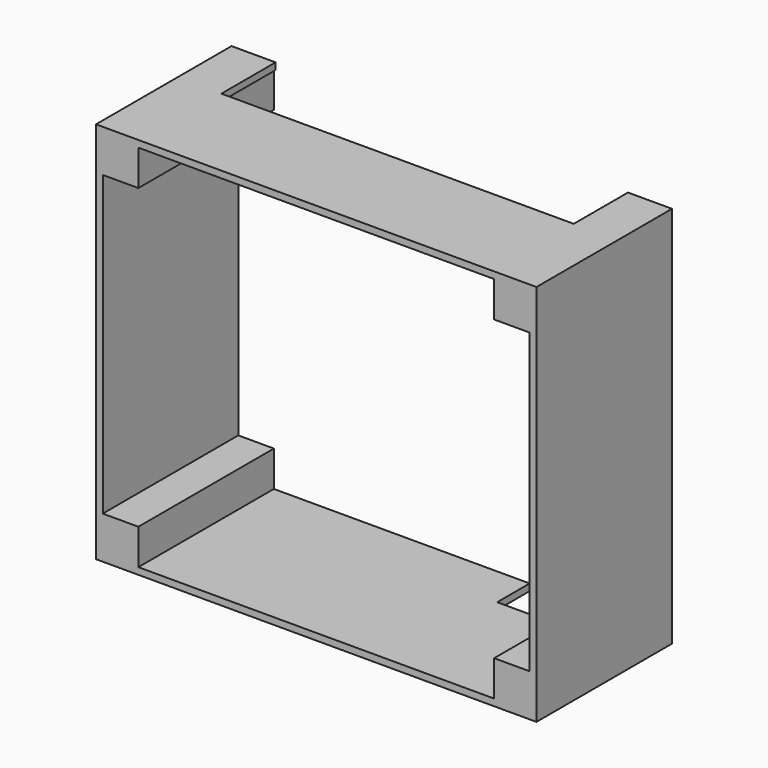
from build123d import *

# Parameters (mm, degrees)
SKETCH_W        = 65
SKETCH_H        = 56.5
SKETCH_W_2      = 63
SKETCH_H_2      = 54.5
PAD_DEPTH       = 25
SKETCH001_W     = 52
SKETCH001_H     = 1
POCKET_DEPTH    = 10
SKETCH002_W     = 14
SKETCH002_H     = 1
POCKET001_DEPTH = 6
SKETCH003_W     = 6.25
SKETCH003_H     = 6.25
PAD001_DEPTH    = 25
SKETCH004_R     = 1
POCKET002_DEPTH = 10


with BuildPart() as part:
    # Sketch → Pad (new body)
    with BuildSketch(Plane.XZ):
        with Locations((32.5, -28.25)):
            Rectangle(SKETCH_W, SKETCH_H)
        with Locations((32.5, -28.25)):
            Rectangle(SKETCH_W_2, SKETCH_H_2, mode=Mode.SUBTRACT)
    extrude(amount=PAD_DEPTH)

    # Sketch001 → Pocket (cut)
    with BuildSketch(Plane.XZ):
        with Locations((32.5, -0.5)):
            Rectangle(SKETCH001_W, SKETCH001_H)
    extrude(amount=POCKET_DEPTH, mode=Mode.SUBTRACT)

    # Sketch002 → Pocket001 (cut)
    with BuildSketch(Plane.XZ):
        with Locations((51, -56)):
            Rectangle(SKETCH002_W, SKETCH002_H)
    extrude(amount=POCKET001_DEPTH, mode=Mode.SUBTRACT)

    # Sketch003 → Pad001 (join)
    with BuildSketch(Plane.XZ):
        with Locations((3.125, -3.125)):
            Rectangle(SKETCH003_W, SKETCH003_H)
        with Locations((3.125, -53.375)):
            Rectangle(SKETCH003_W, SKETCH003_H)
        with Locations((61.875, -53.375)):
            Rectangle(SKETCH003_W, SKETCH003_H)
        with Locations((61.875, -3.125)):
            Rectangle(SKETCH003_W, SKETCH003_H)
    extrude(amount=PAD001_DEPTH)

    # Sketch004 → Pocket002 (cut)
    with BuildSketch(Plane.XZ):
        with Locations((4.5, -52)):
            Circle(SKETCH004_R)
        with Locations((4.5, -4.5)):
            Circle(SKETCH004_R)
        with Locations((60.5, -4.5)):
            Circle(SKETCH004_R)
        with Locations((60.5, -52)):
            Circle(SKETCH004_R)
    extrude(amount=POCKET002_DEPTH, mode=Mode.SUBTRACT)


solid = part.part
